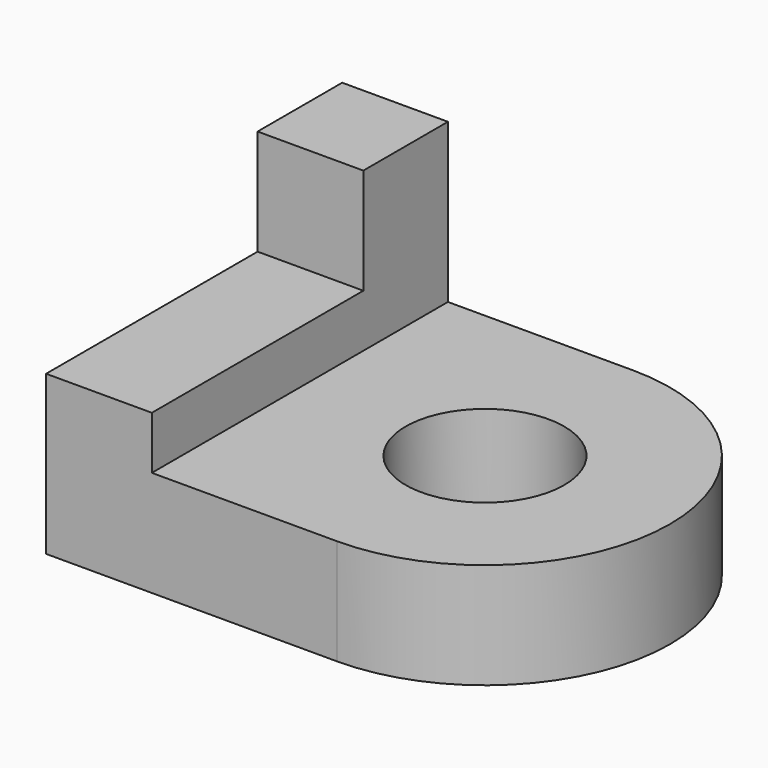
from build123d import *

# Parameters (mm, degrees)
F0_W     = 25.4
F0_H     = 88.9
F1_DEPTH = 25.4
F2_W     = 25.4
F2_H     = 25.4
F3_DEPTH = 38.1
F4_W     = 25.4
F4_H     = 63.5
F5_DEPTH = 12.7
F6_R     = 19.05
F7_DEPTH = 25.4


with BuildPart() as f1:
    # F0 (on Top) → F1 (new body)
    with BuildSketch(Plane.XY):
        with Locations((-99.183585, -28.025017)):
            Rectangle(F0_W, F0_H)
        with BuildLine():
            Line((-42.033585, 16.424983), (-86.483585, 16.424983))
            Line((-86.483585, 16.424983), (-86.483585, -72.475017))
            Line((-86.483585, -72.475017), (-42.033585, -72.475017))
            ThreePointArc((-42.033585, -72.475017), (2.416415, -28.025017), (-42.033585, 16.424983))
        make_face()
    extrude(amount=F1_DEPTH)

    # F2 (on face) → F3 (join)
    with BuildSketch(Plane.XY.offset(25.4)):
        with Locations((-99.183585, 3.724983)):
            Rectangle(F2_W, F2_H)
    extrude(amount=F3_DEPTH)

    # F4 (on face) → F5 (join)
    with BuildSketch(Plane.XY.offset(25.4)):
        with Locations((-99.183585, -40.725017)):
            Rectangle(F4_W, F4_H)
    extrude(amount=F5_DEPTH)

    # F6 (on face) → F7 (cut)
    with BuildSketch(Plane.XY.offset(25.4)):
        with Locations((-42.033585, -28.025017)):
            Circle(F6_R)
    extrude(amount=-F7_DEPTH, mode=Mode.SUBTRACT)


solid = f1.part
